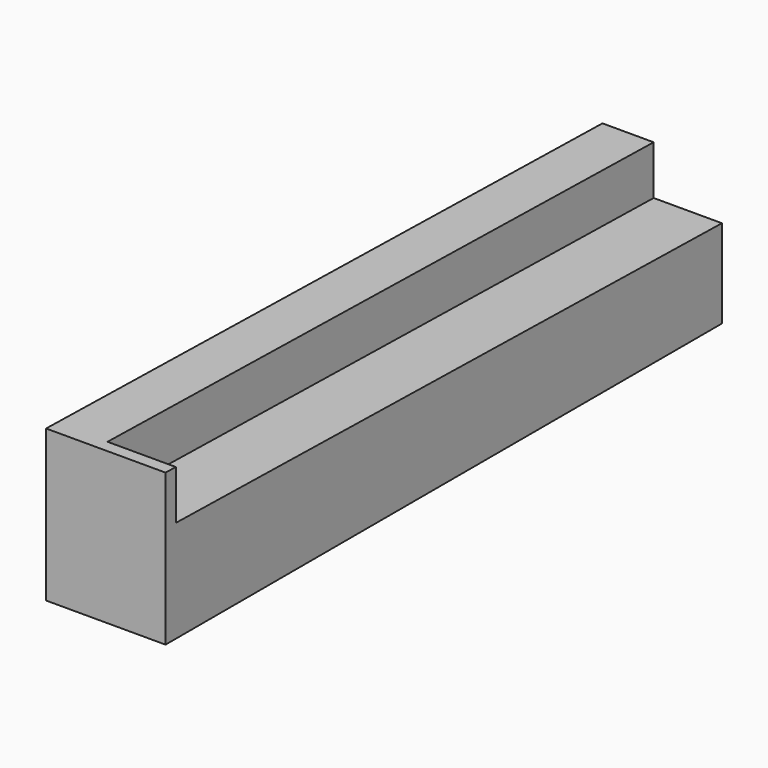
from build123d import *

# Parameters (mm, degrees)
F1_DEPTH = 1400
F3_DEPTH = 800


with BuildPart() as f1:
    # F0 (on Right) → F1 (new body)
    with BuildSketch(Plane.YZ):
        Polygon((0, 0), (8150, 0), (8150, 1610), (0, 1775), align=None)
    extrude(amount=F1_DEPTH)

    # F2 (on face) → F3 (cut)
    with BuildSketch(Plane.YZ.offset(1400)):
        Polygon((8150, 1035), (8150, 1610), (150, 1771.96319), (150, 1195), align=None)
    extrude(amount=-F3_DEPTH, mode=Mode.SUBTRACT)


solid = f1.part
